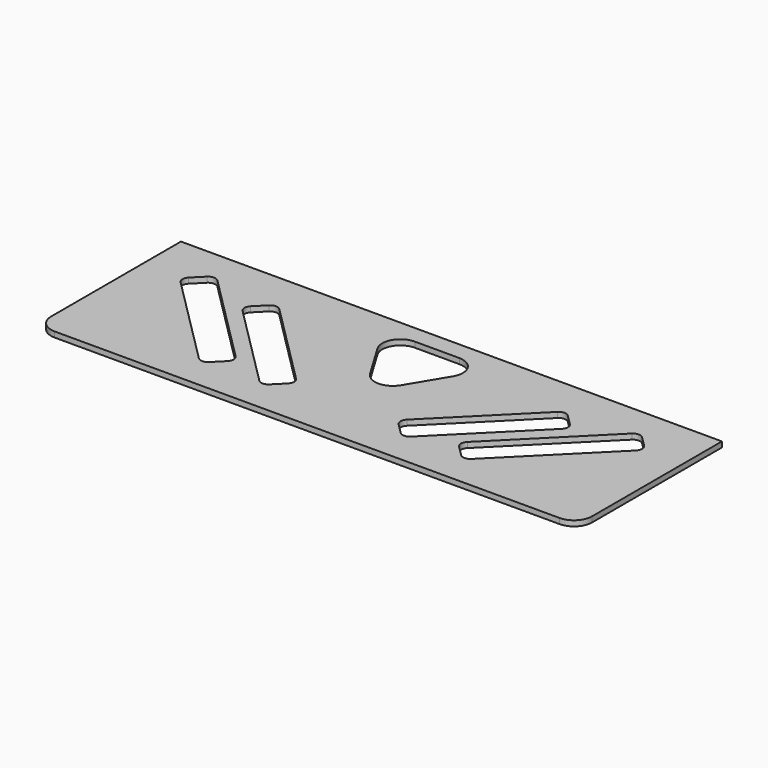
from build123d import *

# Parameters (mm, degrees)
F1_DEPTH = 1.5


with BuildPart() as f1:
    # F0 (on Top) → F1 (new body)
    with BuildSketch(Plane.XY):
        with BuildLine():
            ThreePointArc((0, 5), (1.464466, 1.464466), (5, 0))
            Line((5, 0), (145, 0))
            ThreePointArc((145, 0), (148.535534, 1.464466), (150, 5))
            Line((150, 5), (150, 50))
            Line((150, 50), (0, 50))
            Line((0, 50), (0, 5))
        make_face()
        with BuildLine():
            ThreePointArc((33.585786, 38.585786), (35, 39.171573), (36.414214, 38.585786))
            Line((36.414214, 38.585786), (59.652236, 15.347764))
            ThreePointArc((59.652236, 15.347764), (60.238023, 13.93355), (59.652236, 12.519337))
            Line((59.652236, 12.519337), (56.815474, 9.682574))
            ThreePointArc((56.815474, 9.682574), (55.40126, 9.096788), (53.987047, 9.682574))
            Line((53.987047, 9.682574), (30.749024, 32.920597))
            ThreePointArc((30.749024, 32.920597), (30.163237, 34.33481), (30.749024, 35.749024))
            Line((30.749024, 35.749024), (33.585786, 38.585786))
        make_face(mode=Mode.SUBTRACT)
        with BuildLine():
            Line((90.347764, 15.347764), (113.585786, 38.585786))
            ThreePointArc((113.585786, 38.585786), (115, 39.171573), (116.414214, 38.585786))
            Line((116.414214, 38.585786), (119.250976, 35.749024))
            ThreePointArc((119.250976, 35.749024), (119.836763, 34.33481), (119.250976, 32.920597))
            Line((119.250976, 32.920597), (96.012953, 9.682574))
            ThreePointArc((96.012953, 9.682574), (94.59874, 9.096788), (93.184526, 9.682574))
            Line((93.184526, 9.682574), (90.347764, 12.519337))
            ThreePointArc((90.347764, 12.519337), (89.761977, 13.93355), (90.347764, 15.347764))
        make_face(mode=Mode.SUBTRACT)
        with BuildLine():
            ThreePointArc((14.70177, 40.707107), (16.115984, 41.292893), (17.530197, 40.707107))
            Line((17.530197, 40.707107), (42.88954, 15.347764))
            ThreePointArc((42.88954, 15.347764), (43.475327, 13.93355), (42.88954, 12.519337))
            Line((42.88954, 12.519337), (40.052778, 9.682574))
            ThreePointArc((40.052778, 9.682574), (38.638564, 9.096788), (37.224351, 9.682574))
            Line((37.224351, 9.682574), (11.865008, 35.041917))
            ThreePointArc((11.865008, 35.041917), (11.279221, 36.456131), (11.865008, 37.870344))
            Line((11.865008, 37.870344), (14.70177, 40.707107))
        make_face(mode=Mode.SUBTRACT)
        with BuildLine():
            Line((68.830952, 45), (81.169048, 45))
            ThreePointArc((81.169048, 45), (85.520048, 42.463494), (85.456513, 37.427521))
            Line((85.456513, 37.427521), (79.287465, 27.145774))
            ThreePointArc((79.287465, 27.145774), (75, 24.718253), (70.712535, 27.145774))
            Line((70.712535, 27.145774), (64.543487, 37.427521))
            ThreePointArc((64.543487, 37.427521), (64.479952, 42.463494), (68.830952, 45))
        make_face(mode=Mode.SUBTRACT)
        with BuildLine():
            Line((107.11046, 15.347764), (132.469803, 40.707107))
            ThreePointArc((132.469803, 40.707107), (133.884016, 41.292893), (135.29823, 40.707107))
            Line((135.29823, 40.707107), (138.134992, 37.870344))
            ThreePointArc((138.134992, 37.870344), (138.720779, 36.456131), (138.134992, 35.041917))
            Line((138.134992, 35.041917), (112.775649, 9.682574))
            ThreePointArc((112.775649, 9.682574), (111.361436, 9.096788), (109.947222, 9.682574))
            Line((109.947222, 9.682574), (107.11046, 12.519337))
            ThreePointArc((107.11046, 12.519337), (106.524673, 13.93355), (107.11046, 15.347764))
        make_face(mode=Mode.SUBTRACT)
    extrude(amount=F1_DEPTH)


solid = f1.part
